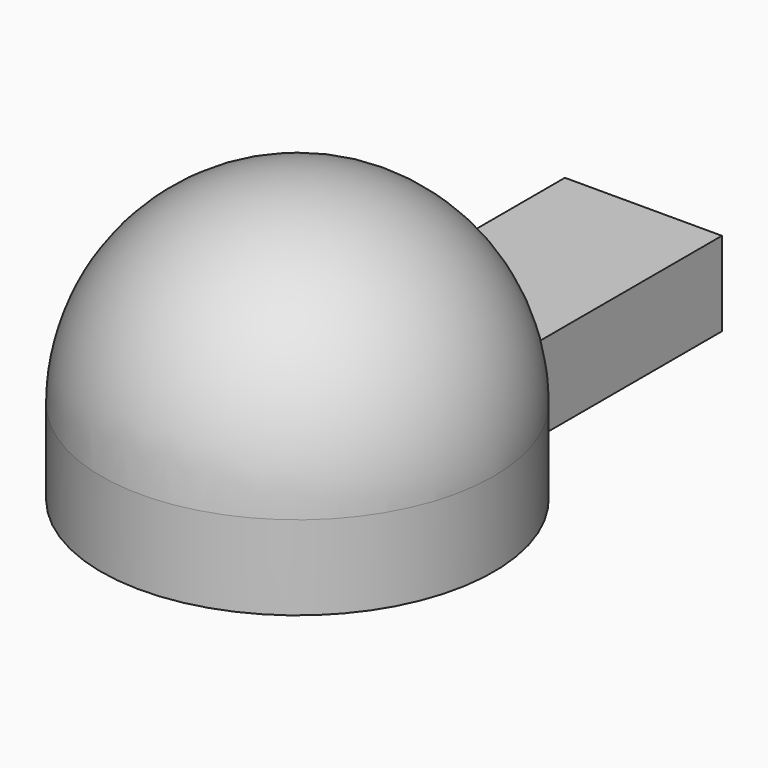
from build123d import *

# Parameters (mm, degrees)
CYLINDER055_R     = 35
CYLINDER055_DEPTH = 15
BOX041_W          = 28
BOX041_H          = 45
BOX041_DEPTH      = 15
SPHERE002_ANGLE   = 180


with BuildPart() as cylinder055:
    # Cylinder055 → Cylinder055 (new body)
    with BuildSketch(Plane(origin=(73.5, -135, -81), x_dir=(1, 0, 0), z_dir=(0, 0, 1))):
        Circle(CYLINDER055_R)
    extrude(amount=CYLINDER055_DEPTH)


with BuildPart() as cube029:
    # Box041 → Box041 (new body)
    with BuildSketch(Plane(origin=(60, -103.5, -81), x_dir=(1, 0, 0), z_dir=(0, 0, 1))):
        with Locations((14, 22.5)):
            Rectangle(BOX041_W, BOX041_H)
    extrude(amount=BOX041_DEPTH)


with BuildPart() as rainmodule:
    # Sphere002 → Sphere002 (revolve)
    with BuildSketch(Plane(origin=(73.5, -135, -66), x_dir=(0, 1, 0), z_dir=(0, 0, -1))):
        with BuildLine():
            ThreePointArc((0, -35), (35, 0), (0, 35))
            Line((0, 35), (0, -35))
        make_face()
    revolve(axis=Axis((73.5, -135, -66), (1, 0, 0)), revolution_arc=SPHERE002_ANGLE)

    # Fusion034: union Cylinder055, Cube029
    add(cylinder055.part)
    add(cube029.part)


with BuildPart() as rainmodule_1:
    # Fusion034 placement: moved
    add(rainmodule.part.moved(Location((-71.92, -71.32, -36.8))))


solid = rainmodule_1.part
